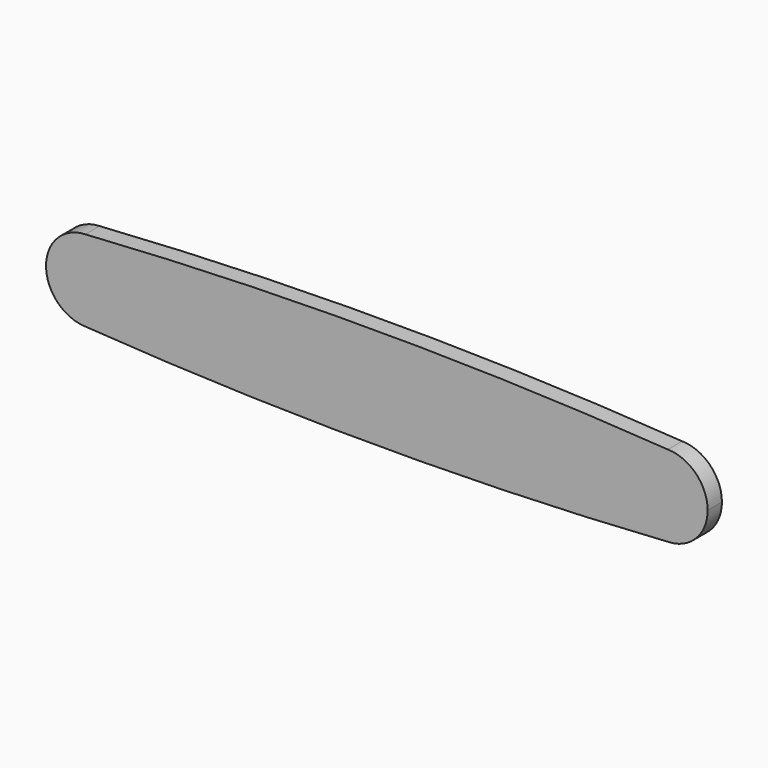
from build123d import *

# Parameters (mm, degrees)
F1_DEPTH = 20


with BuildPart() as f1:
    # F0 (on Front) → F1 (new body)
    with BuildSketch(Plane.XZ):
        with BuildLine():
            ThreePointArc((-326.583678, 45.472431), (-293.391515, 32.728484), (-279.5, 0))
            Line((-279.5, 0), (279.5, 0))
            ThreePointArc((279.5, 0), (293.168529, 32.511651), (325.961867, 45.489832))
            ThreePointArc((325.961867, 45.489832), (-0.311198, 56.468207), (-326.583678, 45.472431))
        make_face()
        with BuildLine():
            Line((279.5, 0), (-279.5, 0))
            ThreePointArc((-279.5, 0), (-293.933876, -33.243735), (-328.077844, -45.39578))
            ThreePointArc((-328.077844, -45.39578), (0, -56.504902), (328.077844, -45.39578))
            ThreePointArc((328.077844, -45.39578), (293.933876, -33.243735), (279.5, 0))
        make_face()
        with BuildLine():
            ThreePointArc((-328.077844, -45.39578), (-293.933876, -33.243735), (-279.5, 0))
            ThreePointArc((-279.5, 0), (-293.391515, 32.728484), (-326.583678, 45.472431))
            ThreePointArc((-326.583678, 45.472431), (-370.49385, 0.748065), (-328.077844, -45.39578))
        make_face()
        with BuildLine():
            ThreePointArc((325.961867, 45.489832), (293.168529, 32.511651), (279.5, 0))
            ThreePointArc((279.5, 0), (293.933876, -33.243735), (328.077844, -45.39578))
            ThreePointArc((328.077844, -45.39578), (358.243735, -31.066124), (370.5, 0))
            ThreePointArc((370.5, 0), (357.511651, 31.831471), (325.961867, 45.489832))
        make_face()
    extrude(amount=F1_DEPTH)


solid = f1.part
